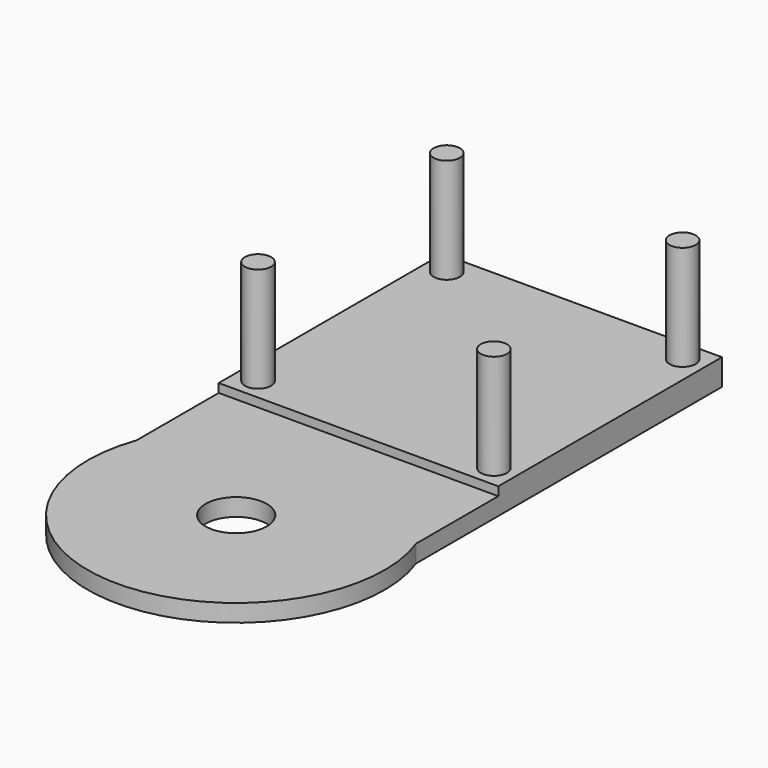
from build123d import *

# Parameters (mm, degrees)
BOX001_W          = 32
BOX001_H          = 15
BOX001_DEPTH      = 2
CYLINDER005_R     = 3.5
CYLINDER005_DEPTH = 2
CYLINDER004_R     = 17
CYLINDER004_DEPTH = 2
CYLINDER003_R     = 1.5
CYLINDER003_DEPTH = 15
CYLINDER002_R     = 1.5
CYLINDER002_DEPTH = 15
CYLINDER001_R     = 1.5
CYLINDER001_DEPTH = 15
CYLINDER_R        = 1.5
CYLINDER_DEPTH    = 15
BOX_W             = 32
BOX_H             = 32
BOX_DEPTH         = 3


with BuildPart() as cube001:
    # Box001 → Box001 (new body)
    with BuildSketch(Plane(origin=(0, -13, 0), x_dir=(1, 0, 0), z_dir=(0, 0, 1))):
        with Locations((16, 7.5)):
            Rectangle(BOX001_W, BOX001_H)
    extrude(amount=BOX001_DEPTH)


with BuildPart() as cylinder005:
    # Cylinder005 → Cylinder005 (new body)
    with BuildSketch(Plane(origin=(16, -17.5, 0), x_dir=(1, 0, 0), z_dir=(0, 0, 1))):
        Circle(CYLINDER005_R)
    extrude(amount=CYLINDER005_DEPTH)


with BuildPart() as cut:
    # Cylinder004 → Cylinder004 (new body)
    with BuildSketch(Plane(origin=(16, -17.5, 0), x_dir=(1, 0, 0), z_dir=(0, 0, 1))):
        Circle(CYLINDER004_R)
    extrude(amount=CYLINDER004_DEPTH)

    # Cut: cut Cylinder005
    add(cylinder005.part, mode=Mode.SUBTRACT)


with BuildPart() as cylinder003:
    # Cylinder003 → Cylinder003 (new body)
    with BuildSketch(Plane(origin=(29.5, 29.5, 0), x_dir=(1, 0, 0), z_dir=(0, 0, 1))):
        Circle(CYLINDER003_R)
    extrude(amount=CYLINDER003_DEPTH)


with BuildPart() as cylinder002:
    # Cylinder002 → Cylinder002 (new body)
    with BuildSketch(Plane(origin=(2.5, 29.5, 0), x_dir=(1, 0, 0), z_dir=(0, 0, 1))):
        Circle(CYLINDER002_R)
    extrude(amount=CYLINDER002_DEPTH)


with BuildPart() as cylinder001:
    # Cylinder001 → Cylinder001 (new body)
    with BuildSketch(Plane(origin=(29.5, 2.5, 0), x_dir=(1, 0, 0), z_dir=(0, 0, 1))):
        Circle(CYLINDER001_R)
    extrude(amount=CYLINDER001_DEPTH)


with BuildPart() as cylinder:
    # Cylinder → Cylinder (new body)
    with BuildSketch(Plane(origin=(2.5, 2.5, 0), x_dir=(1, 0, 0), z_dir=(0, 0, 1))):
        Circle(CYLINDER_R)
    extrude(amount=CYLINDER_DEPTH)


with BuildPart() as fusion005:
    # Box → Box (new body)
    with BuildSketch(Plane.XY):
        with Locations((16, 16)):
            Rectangle(BOX_W, BOX_H)
    extrude(amount=BOX_DEPTH)

    # Fusion: union Cylinder
    add(cylinder.part)

    # Fusion001: union Cylinder001
    add(cylinder001.part)

    # Fusion002: union Cylinder002
    add(cylinder002.part)

    # Fusion003: union Cylinder003
    add(cylinder003.part)

    # Fusion004: union Cut
    add(cut.part)

    # Fusion005: union Cube001
    add(cube001.part)


solid = fusion005.part
